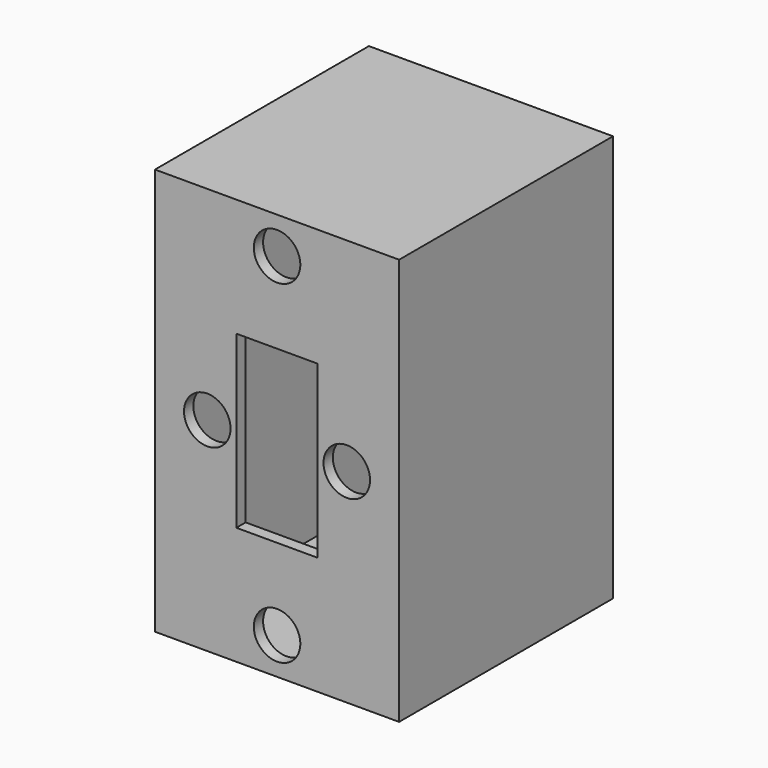
from build123d import *

# Parameters (mm, degrees)
F1_W     = 21
F1_H     = 35
F2_DEPTH = 23
F3_W     = 19
F3_H     = 33
F4_DEPTH = 22
F5_W     = 7
F5_H     = 14.7
F6_DEPTH = 25
F8_D     = 4
F8_DEPTH = 6
F8_TIP   = 1.2017212381


with BuildPart() as f2:
    # F1 (on Front) → F2 (new body)
    with BuildSketch(Plane.XZ):
        Rectangle(F1_W, F1_H)
    extrude(amount=-F2_DEPTH)

    # F3 (on face) → F4 (cut)
    with BuildSketch(Plane(origin=(0, 23, 0), x_dir=(-1, 0, 0), z_dir=(0, 1, 0))):
        Rectangle(F3_W, F3_H)
    extrude(amount=-F4_DEPTH, mode=Mode.SUBTRACT)

    # F5 (on Front) → F6 (cut)
    with BuildSketch(Plane.XZ):
        Rectangle(F5_W, F5_H)
    extrude(amount=-F6_DEPTH, mode=Mode.SUBTRACT)

    # F8
    with Locations(Plane.XZ):
        with Locations((0, 14.35), (-6, 0), (6, 0), (0, -14.35)):
            Hole(F8_D / 2, depth=F8_DEPTH)
            with Locations((0, 0, -(F8_DEPTH + F8_TIP / 2))):  # 118° drill point
                Cone(0, F8_D / 2, F8_TIP, mode=Mode.SUBTRACT)


solid = f2.part
